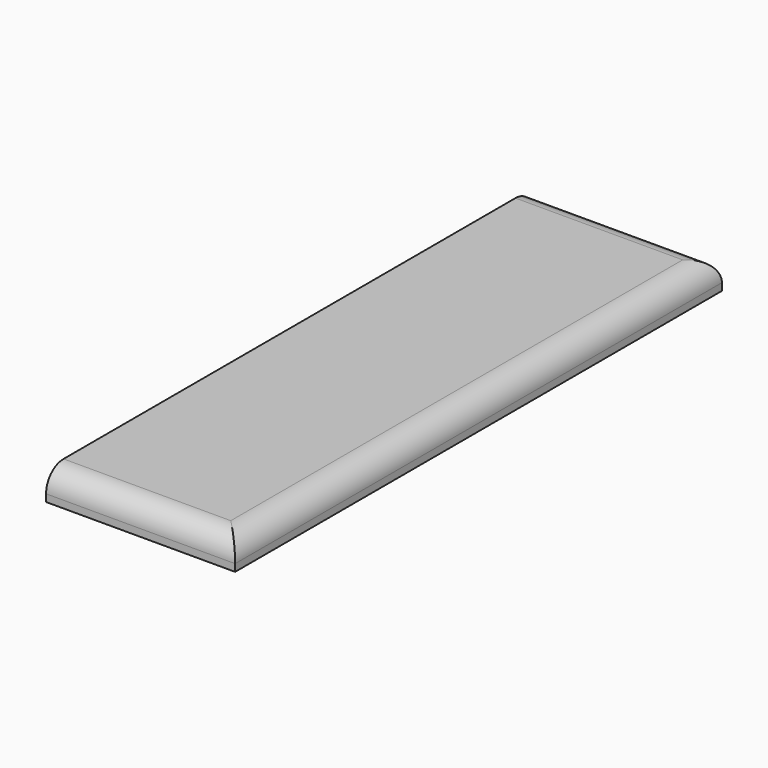
from build123d import *

# Parameters (mm, degrees)
F0_W     = 13
F0_H     = 41.843747
F1_DEPTH = 2
F2_R     = 1.5


with BuildPart() as f1:
    # F0 (on Top) → F1 (new body)
    with BuildSketch(Plane.XY):
        with Locations((-1.757174, 11.714493)):
            Rectangle(F0_W, F0_H)
        with Locations((-1.757174, 11.714493)):
            Rectangle(F0_W, F0_H)
    extrude(amount=F1_DEPTH)

    # F2
    f2_edges = [f1.edges().sort_by_distance(p)[0] for p in [
        (-1.757174, -9.20738, 2),
        (4.742826, 11.714494, 2),
        (-1.757174, 32.636367, 2),
    ]]
    fillet(f2_edges, radius=F2_R)


solid = f1.part
